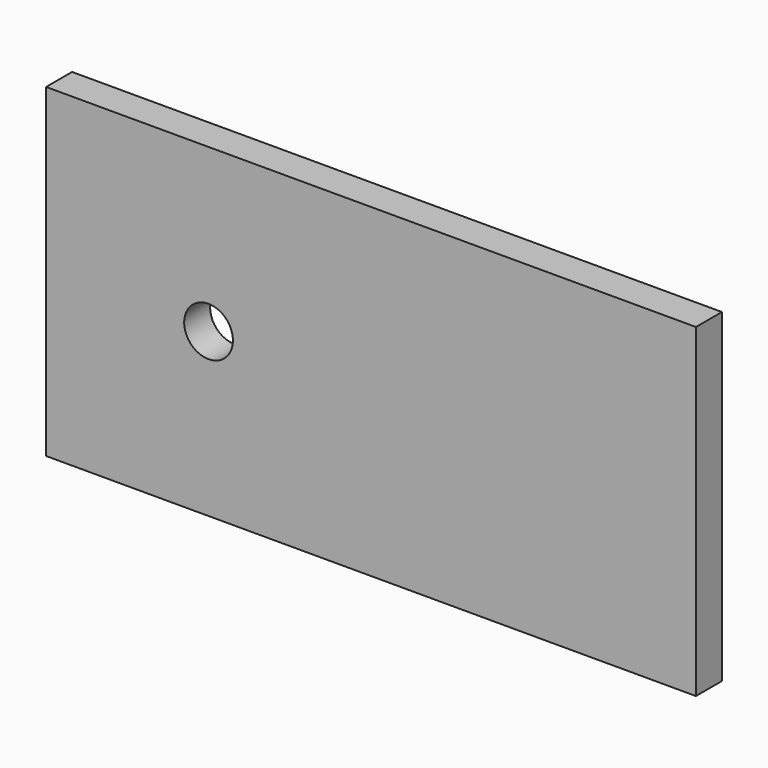
from build123d import *

# Parameters (mm, degrees)
F0_W     = 200
F0_H     = 100
F0_R     = 7.5
F1_DEPTH = 10


with BuildPart() as f1:
    # F0 (on Front) → F1 (new body)
    with BuildSketch(Plane.XZ):
        Rectangle(F0_W, F0_H)
        with Locations((-50, 0)):
            Circle(F0_R, mode=Mode.SUBTRACT)
    extrude(amount=-F1_DEPTH)


solid = f1.part
